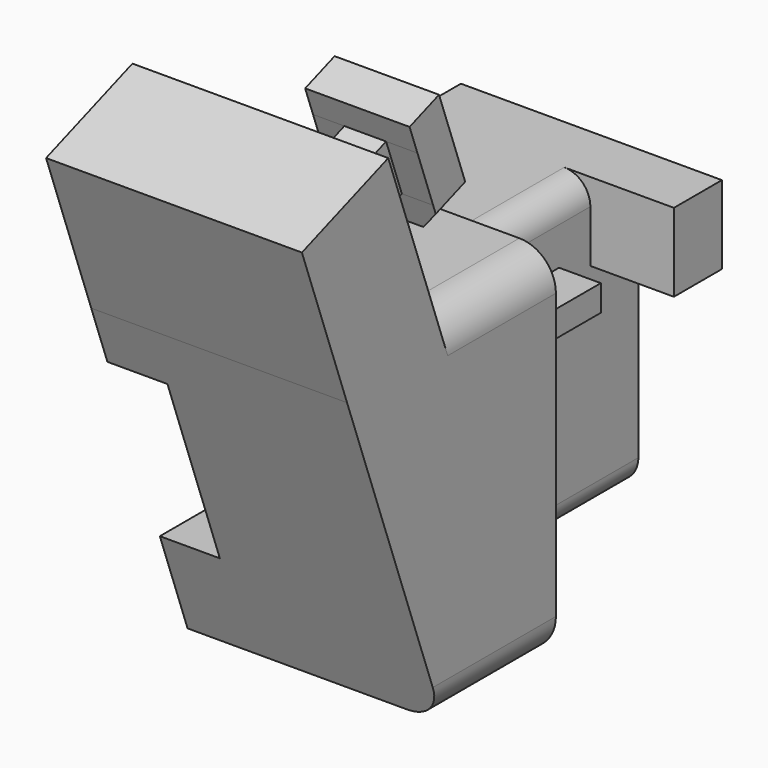
from build123d import *

# Parameters (mm, degrees)
SKETCH_W             = 13.6
SKETCH_H             = 22.8
PAD_DEPTH            = 25.4
SKETCH001_W          = 3.2
SKETCH001_H          = 2
PAD001_DEPTH         = 17.8
PAD002_START         = -20.8
SKETCH002_W          = 20
SKETCH002_H          = 6
PAD002_DEPTH         = 4.6
SKETCH003_W          = 4.6
SKETCH003_H          = 13.6
POCKET_DEPTH         = 3.6
SKETCH005_W          = 19.6
SKETCH005_H          = 27.4
PAD003_DEPTH         = 10
PAD003_DEPTH_BACK    = 10
PAD004_DEPTH         = 19.6
SKETCH008_W          = 12.6
SKETCH008_H          = 3.6
SKETCH008_W_2        = 3.8
POCKET001_DEPTH      = 4.4
POCKET002_DEPTH      = 6.6
POCKET003_DEPTH      = 19.6
SKETCH011_W          = 4.6
SKETCH011_H          = 13.8
POCKET004_DEPTH      = 10
POCKET004_DEPTH_BACK = 2
FILLET_R             = 2.8
FILLET001_R          = 2


with BuildPart() as part:
    # Sketch → Pad (new body)
    with BuildSketch(Plane.XZ):
        with Locations((6.8, 12.4)):
            Rectangle(SKETCH_W, SKETCH_H)
    extrude(amount=-PAD_DEPTH)

    # Sketch001 → Pad001 (join)
    with BuildSketch(Plane.XZ):
        with Locations((15.2, 17.9)):
            Rectangle(SKETCH001_W, SKETCH001_H)
    extrude(amount=-PAD001_DEPTH)

    # Sketch002 → Pad002 (join)
    with BuildSketch(Plane.XZ.offset(PAD002_START)):
        with Locations((10, 20.8)):
            Rectangle(SKETCH002_W, SKETCH002_H)
    extrude(amount=-PAD002_DEPTH)

    # Sketch003 → Pocket (cut)
    with BuildSketch(Plane.XZ):
        with Locations((2.3, 11.4)):
            Rectangle(SKETCH003_W, SKETCH003_H)
    extrude(amount=-POCKET_DEPTH, mode=Mode.SUBTRACT)

    # Sketch005 → Pad003 (join, two sides)
    with BuildSketch(Plane.XZ) as pad003_sk:
        with Locations((9.8, 11.4)):
            Rectangle(SKETCH005_W, SKETCH005_H)
    extrude(amount=-PAD003_DEPTH)
    extrude(pad003_sk.sketch, amount=PAD003_DEPTH_BACK)

    # Sketch007 → Pad004 (join)
    with BuildSketch(Plane.YZ):
        Polygon((-1.2, 24.6), (-9.4692950629, 21.5902227387), (-14.3259810981, 34.9338579539), (-6.0566860352, 37.9436352152), (-4.8938175479, 34.7486803045), (-1.5109241131, 35.9799528205), (-2.2633684284, 38.0472765862), (0.5557094339, 39.0733370162), (3.6338907239, 30.6161034291), (0.8148128615, 29.5900429991), (-0.0060354825, 31.845305289), (-3.3889289173, 30.614032773), align=None)
    extrude(amount=PAD004_DEPTH)

    # Sketch008 (on DatumPlane) → Pocket001 (cut)
    with BuildSketch(Plane(origin=(0, -11.7404784812, 32.2566995207), x_dir=(-1, 0, 0), z_dir=(0, -0.3420201433, 0.9396926208))):
        with Locations((-6.3, -9.0860643809)):
            Rectangle(SKETCH008_W, SKETCH008_H)
        with Locations((-17.7, -9.0860643809)):
            Rectangle(SKETCH008_W_2, SKETCH008_H)
    extrude(amount=-POCKET001_DEPTH, mode=Mode.SUBTRACT)

    # Sketch009 (on DatumPlane) → Pocket002 (cut)
    with BuildSketch(Plane(origin=(0, 6.8466609333, 2.4919807838), x_dir=(1, 0, 0), z_dir=(0, 0.9396926208, 0.3420201433))):
        Polygon((11.600006173, -27.5268626433), (10.2, -29.195323), (10.2, -36.526867), (0, -36.526867), (0, -27.5268626433), align=None)
        Polygon((16.7999894706, -27.5268626433), (18.2, -29.1953225959), (18.2, -36.526867), (19.6, -36.526867), (19.6, -27.5268626433), align=None)
    extrude(amount=POCKET002_DEPTH, mode=Mode.SUBTRACT)

    # Sketch010 → Pocket003 (cut)
    with BuildSketch(Plane.YZ):
        Polygon((-0.773965096, -2.3), (-14.3259810981, -2.3), (-14.3259810981, 34.9338579539), align=None)
    extrude(amount=POCKET003_DEPTH, mode=Mode.SUBTRACT)

    # Sketch011 → Pocket004 (cut, two sides)
    with BuildSketch(Plane.XZ) as pocket004_sk:
        with Locations((2.3, 11.9)):
            Rectangle(SKETCH011_W, SKETCH011_H)
    extrude(amount=POCKET004_DEPTH, mode=Mode.SUBTRACT)
    extrude(pocket004_sk.sketch, amount=-POCKET004_DEPTH_BACK, mode=Mode.SUBTRACT)

    # Fillet
    fillet_edges = [part.edges().sort_by_distance(p)[0] for p in [
        (19.6, 4.309007, 25.1),
        (19.6, 4.613017, -2.3),
    ]]
    fillet(fillet_edges, radius=FILLET_R)

    # Fillet001
    fillet001_edges = [part.edges().sort_by_distance(p)[0] for p in [
        (13.6, 15.4, 23.8),
        (13.6, 17.7, 1),
    ]]
    fillet(fillet001_edges, radius=FILLET001_R)


solid = part.part
